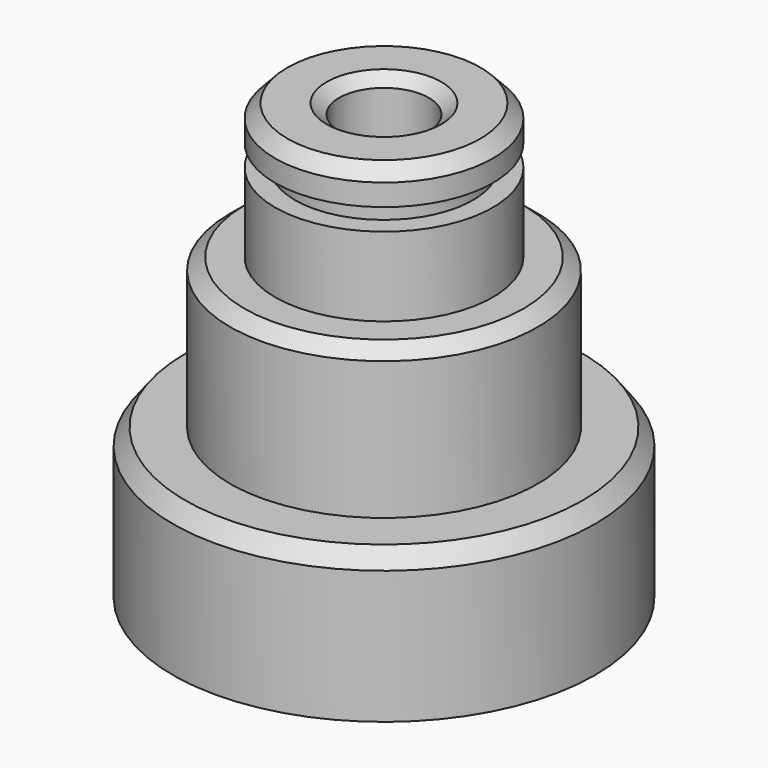
from build123d import *


with BuildPart() as f1:
    # F0 (on Front) → F1 (revolve)
    with BuildSketch(Plane.XZ):
        Polygon((-36.952455, 0), (-7.856031, 0), (-7.856031, 74.341364), (-10.038262, 76.087154), (-16.875923, 76.087154), (-19.058153, 73.759437), (-19.058153, 69.976896), (-15.566583, 69.976896), (-15.566583, 66.19437), (-19.058153, 66.19437), (-19.058153, 52.373566), (-24.440993, 52.373566), (-26.914189, 50.336815), (-26.914189, 26.186783), (-34.770224, 26.186783), (-36.952455, 23.277141), align=None)
    revolve(axis=Axis((0, 0, 38.552761), (0, 0, 1)))


solid = f1.part
